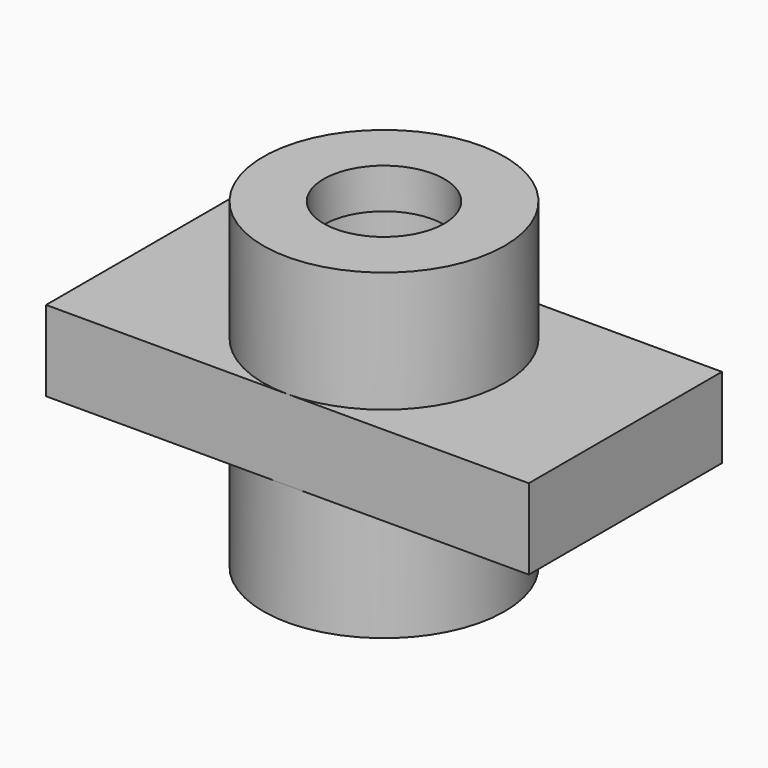
from build123d import *

# Parameters (mm, degrees)
F0_W      = 76.2
F0_H      = 38.1
F1_DEPTH  = 6.35
F2_R      = 19.05
F3_DEPTH  = 25.4
F4_R      = 9.525
F5_DEPTH  = 50.801
F6_R      = 12.7
F7_DEPTH  = 12.7
F8_R      = 12.7
F9_DEPTH  = 6.35
F10_R     = 9.525
F11_DEPTH = 50.801


with BuildPart() as f1:
    # F0 (on Top) → F1 (new body, symmetric)
    with BuildSketch(Plane.XY):
        Rectangle(F0_W, F0_H)
    extrude(amount=F1_DEPTH, both=True)

    # F2 (on Top) → F3 (join, symmetric)
    with BuildSketch(Plane.XY):
        Circle(F2_R)
    extrude(amount=F3_DEPTH, both=True)

    # F4 (on face) → F5 (cut, through all)
    with BuildSketch(Plane.XY.offset(25.4)):
        Circle(F4_R)
    extrude(amount=-F5_DEPTH, mode=Mode.SUBTRACT)

    # F6 (on face) → F7 (cut)
    with BuildSketch(Plane.XY.offset(25.4)):
        Circle(F6_R)
    extrude(amount=-F7_DEPTH, mode=Mode.SUBTRACT)

    # F8 (on face) → F9 (join)
    with BuildSketch(Plane.XY.offset(25.4)):
        Circle(F8_R)
    extrude(amount=-F9_DEPTH)

    # F10 (on face) → F11 (cut, through all)
    with BuildSketch(Plane.XY.offset(25.4)):
        Circle(F10_R)
    extrude(amount=-F11_DEPTH, mode=Mode.SUBTRACT)


solid = f1.part
